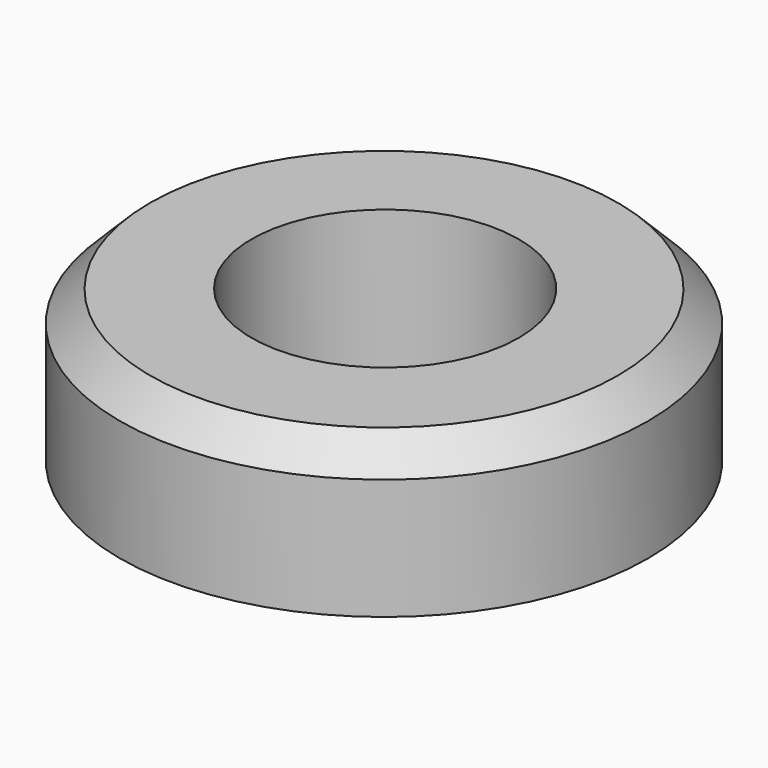
from build123d import *

# Parameters (mm, degrees)
F0_R     = 44.395237
F1_DEPTH = 25.4
F2_SIZE  = 5.08
F3_R     = 22.466185
F4_DEPTH = 25.401


with BuildPart() as f1:
    # F0 (on Top) → F1 (new body)
    with BuildSketch(Plane.XY):
        with Locations((0, -24.399335)):
            Circle(F0_R)
    extrude(amount=F1_DEPTH)

    # F2
    f2_edges = [f1.edges().sort_by_distance(p)[0] for p in [
        (-44.395237, -24.399335, 25.4),
    ]]
    chamfer(f2_edges, length=F2_SIZE)

    # F3 (on Top) → F4 (cut, through all)
    with BuildSketch(Plane.XY):
        with Locations((0, -24.16065)):
            Circle(F3_R)
    extrude(amount=F4_DEPTH, mode=Mode.SUBTRACT)


solid = f1.part
